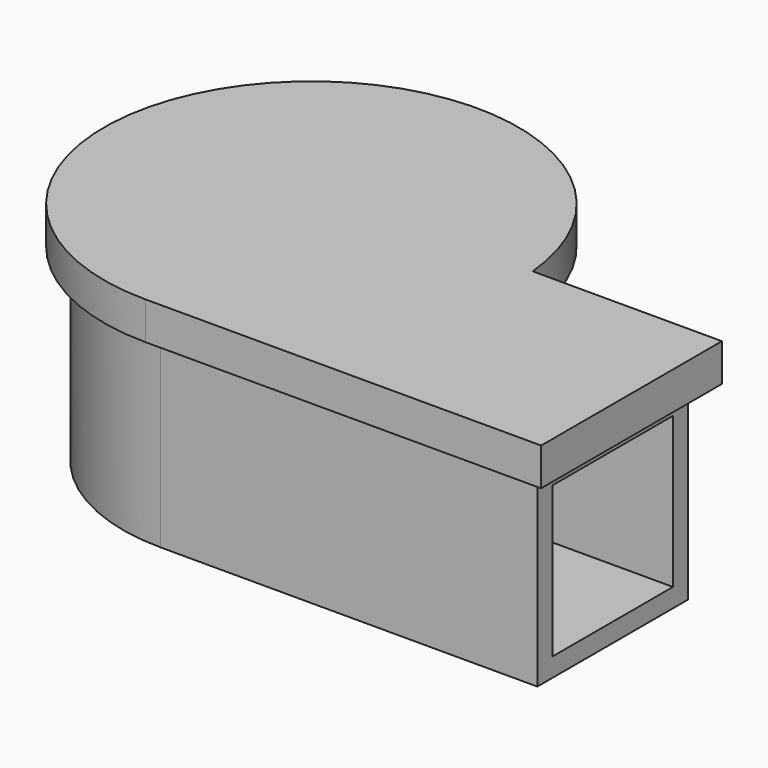
from build123d import *

# Parameters (mm, degrees)
F1_DEPTH  = 10
F3_DEPTH  = 10
F4_W      = 7.999999905
F4_H      = 7.999999905
F5_DEPTH  = 1
F7_DEPTH  = 1
F9_DEPTH  = 2
F11_DEPTH = 1


with BuildPart() as f1:
    # F0 (on Top) → F1 (new body)
    with BuildSketch(Plane.XY):
        with BuildLine():
            ThreePointArc((0, -10), (7.0710678119, -7.0710678119), (10, 0))
            Line((10, 0), (0, 0))
            Line((0, 0), (0, -10))
        make_face()
        with BuildLine():
            Line((20, 0), (10, 0))
            ThreePointArc((10, 0), (7.0710678119, -7.0710678119), (0, -10))
            Line((0, -10), (20, -10))
            Line((20, -10), (20, 0))
        make_face()
        with BuildLine():
            Line((0, 0), (10, 0))
            ThreePointArc((10, 0), (-7.0710678119, 7.0710678119), (0, -10))
            Line((0, -10), (0, 0))
        make_face()
    extrude(amount=F1_DEPTH)

    # F2 (on face) → F3 (cut, through all)
    with BuildSketch(Plane(origin=(0, 0, 0), x_dir=(1, 0, 0), z_dir=(0, 0, -1))):
        with BuildLine():
            Line((19, 9), (0, 9))
            ThreePointArc((0, 9), (-6, -6.7082039325), (8.94427191, 1))
            Line((8.94427191, 1), (19, 1))
            Line((19, 1), (19, 9))
        make_face()
    extrude(amount=-F3_DEPTH, mode=Mode.SUBTRACT)

    # F4 (on face) → F5 (cut, through all)
    with BuildSketch(Plane.YZ.offset(20)):
        with Locations((-5, 5)):
            Rectangle(F4_W, F4_H)
    extrude(amount=-F5_DEPTH, mode=Mode.SUBTRACT)

    # F6 (on Top) → F7 (join)
    with BuildSketch(Plane.XY):
        with BuildLine():
            Line((20, 0), (10, 0))
            ThreePointArc((10, 0), (-7.0710678119, 7.0710678119), (0, -10))
            Line((0, -10), (20, -10))
            Line((20, -10), (20, 0))
        make_face()
    extrude(amount=F7_DEPTH)


with BuildPart() as f9:
    # F8 (on face) → F9 (new body)
    with BuildSketch(Plane.XY.offset(10)):
        with BuildLine():
            Line((21, 1), (10.9544511501, 1))
            ThreePointArc((10.9544511501, 1), (-8.1240384046, 7.4161984871), (0, -11))
            Line((0, -11), (21, -11))
            Line((21, -11), (21, 1))
        make_face()
        with BuildLine():
            Line((20, -10), (0, -10))
            ThreePointArc((0, -10), (-7.0710678119, 7.0710678119), (10, 0))
            Line((10, 0), (20, 0))
            Line((20, 0), (20, -10))
        make_face(mode=Mode.SUBTRACT)
    extrude(amount=F9_DEPTH)

    # F10 (on face) → F11 (join)
    with BuildSketch(Plane.XY.offset(12)):
        with BuildLine():
            Line((20, 0), (10, 0))
            ThreePointArc((10, 0), (-7.0710678119, 7.0710678119), (0, -10))
            Line((0, -10), (20, -10))
            Line((20, -10), (20, 0))
        make_face()
    extrude(amount=-F11_DEPTH)


solid = Compound([f1.part, f9.part])
